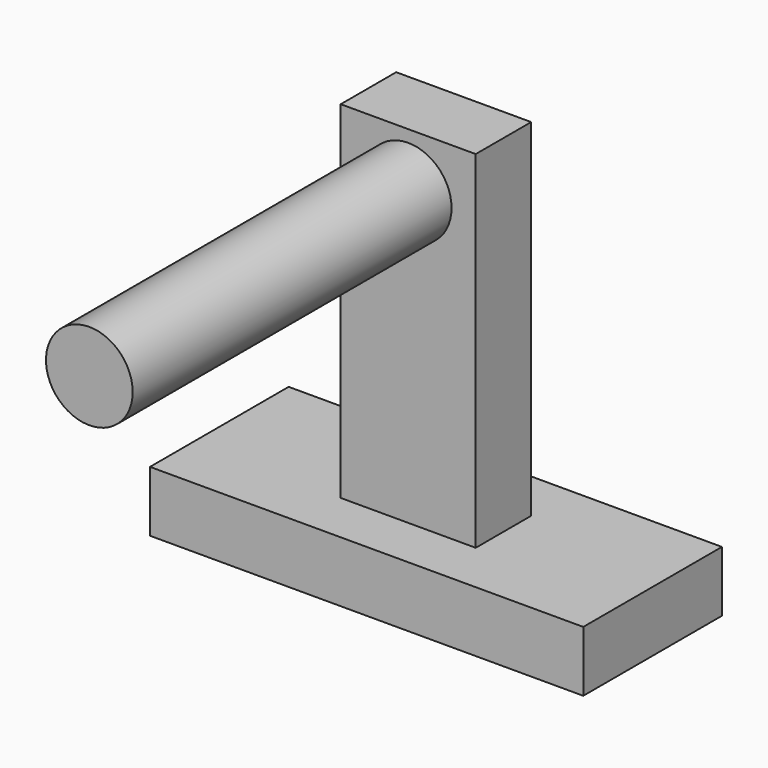
from build123d import *

# Parameters (mm, degrees)
F0_W     = 12.7
F0_H     = 5.08
F1_DEPTH = 1.778
F3_W     = 3.957054
F3_H     = 2.032
F4_DEPTH = 10.16
F5_R     = 1.27
F6_DEPTH = 12.7


with BuildPart() as f1:
    # F0 (on Top) → F1 (new body)
    with BuildSketch(Plane.XY):
        Rectangle(F0_W, F0_H)
    extrude(amount=F1_DEPTH)

    # F3 (on offset) → F4 (join)
    with BuildSketch(Plane.XY.offset(1.778)):
        Rectangle(F3_W, F3_H)
    extrude(amount=F4_DEPTH)

    # F5 (on Front) → F6 (join)
    with BuildSketch(Plane.XZ):
        with Locations((0, 10.315562)):
            Circle(F5_R)
    extrude(amount=F6_DEPTH)


solid = f1.part
